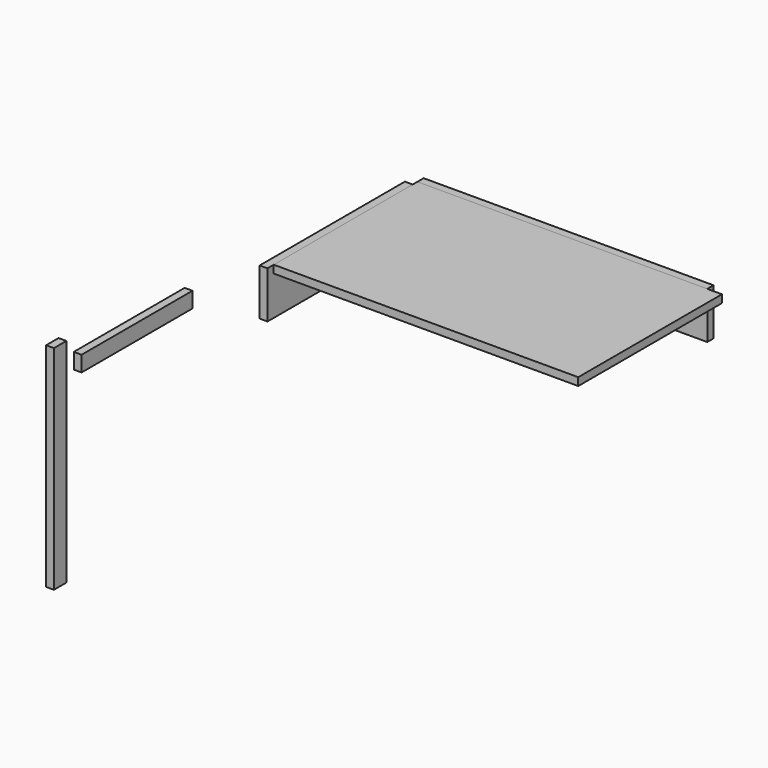
from build123d import *

# Parameters (mm, degrees)
F1_W     = 942.975
F1_H     = 152.4
F3_DEPTH = 25.4
F0_W     = 990.6
F0_H     = 584.2
F4_DEPTH = 25.4
F2_W     = 590.55
F2_H     = 152.4
F5_DEPTH = 25.4
F6_W     = 50.8
F6_H     = 692.15
F7_DEPTH = 25.4
F8_W     = 450.85
F8_H     = 50.8
F9_DEPTH = 25.4


with BuildPart() as f3:
    # F1 (on Front) → F3 (new body)
    with BuildSketch(Plane.XZ):
        with Locations((471.4875, -76.2)):
            Rectangle(F1_W, F1_H)
    extrude(amount=-F3_DEPTH)


with BuildPart() as f4:
    # F0 (on Top) → F4 (new body)
    with BuildSketch(Plane.XY):
        with Locations((495.3, -292.1)):
            Rectangle(F0_W, F0_H)
    extrude(amount=-F4_DEPTH)


with BuildPart() as f5:
    # F2 (on Right) → F5 (new body)
    with BuildSketch(Plane.YZ):
        with Locations((-314.325468, -76.2)):
            Rectangle(F2_W, F2_H)
    extrude(amount=-F5_DEPTH)


with BuildPart() as f7:
    # F6 (on Right) → F7 (new body)
    with BuildSketch(Plane.YZ):
        with Locations((-1484.41227, -200.450538)):
            Rectangle(F6_W, F6_H)
    extrude(amount=F7_DEPTH)


with BuildPart() as f9:
    # F8 (on Right) → F9 (new body)
    with BuildSketch(Plane.YZ):
        with Locations((-1171.798237, 55.515485)):
            Rectangle(F8_W, F8_H)
    extrude(amount=F9_DEPTH)


solid = Compound([f3.part, f4.part, f5.part, f7.part, f9.part])
